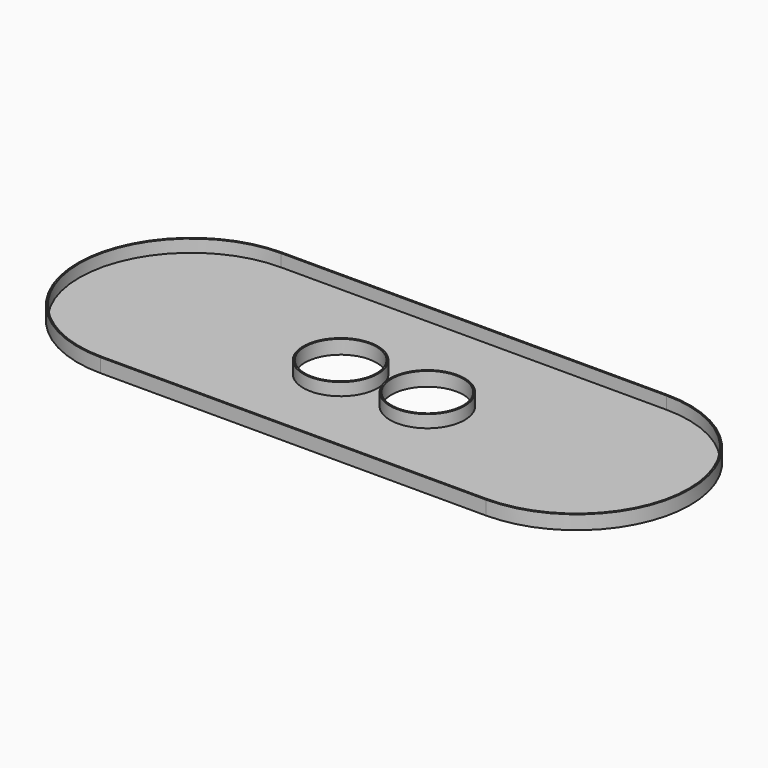
from build123d import *

# Parameters (mm, degrees)
F0_R     = 19.05
F1_DEPTH = 6.35
F2_T     = 0.762


with BuildPart() as f1:
    # F0 (on Top) → F1 (new body)
    with BuildSketch(Plane.XY):
        with BuildLine():
            Line((76.2, 57.15), (-120.4468, 57.15))
            ThreePointArc((-120.4468, 57.15), (-177.5968, 0), (-120.4468, -57.15))
            Line((-120.4468, -57.15), (76.2, -57.15))
            ThreePointArc((76.2, -57.15), (133.35, 0), (76.2, 57.15))
        make_face()
        with Locations((-44.2468, 0)):
            Circle(F0_R, mode=Mode.SUBTRACT)
        Circle(F0_R, mode=Mode.SUBTRACT)
    extrude(amount=F1_DEPTH)

    # F2
    f2_openings = [f1.faces().sort_by_distance(p)[0] for p in [
        (-22.1234, 0, 6.35),
    ]]
    offset(amount=F2_T, openings=f2_openings, kind=Kind.INTERSECTION)


solid = f1.part
